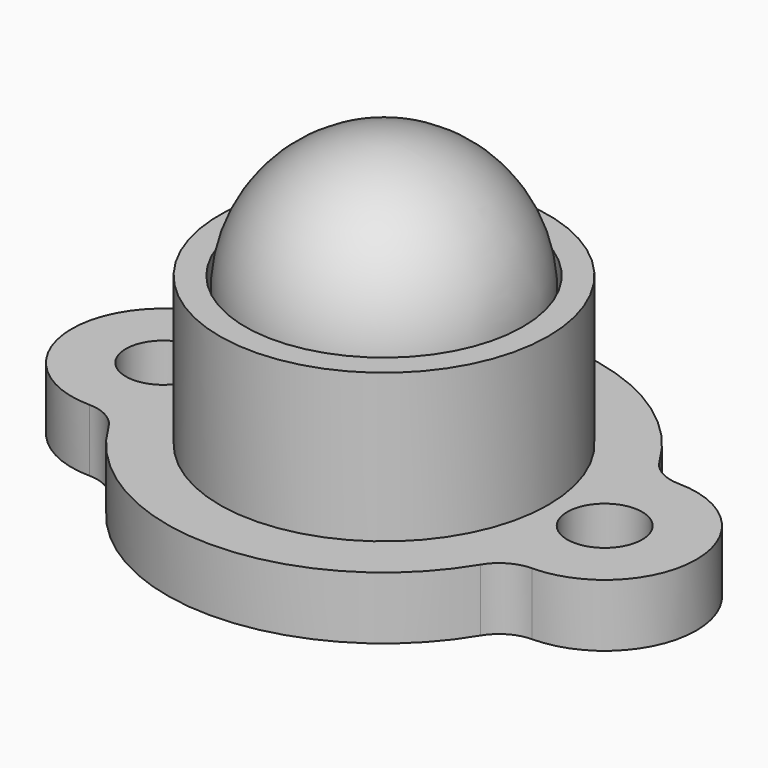
from build123d import *

# Parameters (mm, degrees)
F0_R     = 1.143
F1_DEPTH = 1.905
F4_W     = 0.779254
F4_H     = 4.527096


with BuildPart() as f1:
    # F0 (on Top) → F1 (new body)
    with BuildSketch(Plane.XY):
        with BuildLine():
            ThreePointArc((-6.752613, -2.793916), (-6.132824, -2.960933), (-5.673877, -3.409709))
            ThreePointArc((-5.673877, -3.409709), (0, -6.619592), (5.673877, -3.409709))
            ThreePointArc((5.673877, -3.409709), (6.132824, -2.960933), (6.752613, -2.793916))
            ThreePointArc((6.752613, -2.793916), (9.525, 0), (6.752613, 2.793916))
            ThreePointArc((6.752613, 2.793916), (6.132824, 2.960933), (5.673877, 3.409709))
            ThreePointArc((5.673877, 3.409709), (0, 6.619592), (-5.673877, 3.409709))
            ThreePointArc((-5.673877, 3.409709), (-6.132824, 2.960933), (-6.752613, 2.793916))
            ThreePointArc((-6.752613, 2.793916), (-9.525, 0), (-6.752613, -2.793916))
        make_face()
        with Locations((-6.731, 0)):
            Circle(F0_R, mode=Mode.SUBTRACT)
        with Locations((6.731, 0)):
            Circle(F0_R, mode=Mode.SUBTRACT)
    extrude(amount=F1_DEPTH)

    # F4 (on Front) → F5 (revolve)
    with BuildSketch(Plane.XZ):
        with Locations((4.621729, 4.168548)):
            Rectangle(F4_W, F4_H)
    revolve(axis=Axis((0, 0, 4.886028), (0, 0, -1)))


with BuildPart() as f3:
    # F2 (on Front) → F3 (revolve)
    with BuildSketch(Plane.XZ):
        with BuildLine():
            ThreePointArc((0, 1.905), (4.1275, 6.0325), (0, 10.16))
            Line((0, 10.16), (0, 1.905))
        make_face()
    revolve(axis=Axis((0, 0, 6.0325), (0, 0, -1)))


solid = Compound([f1.part, f3.part])
